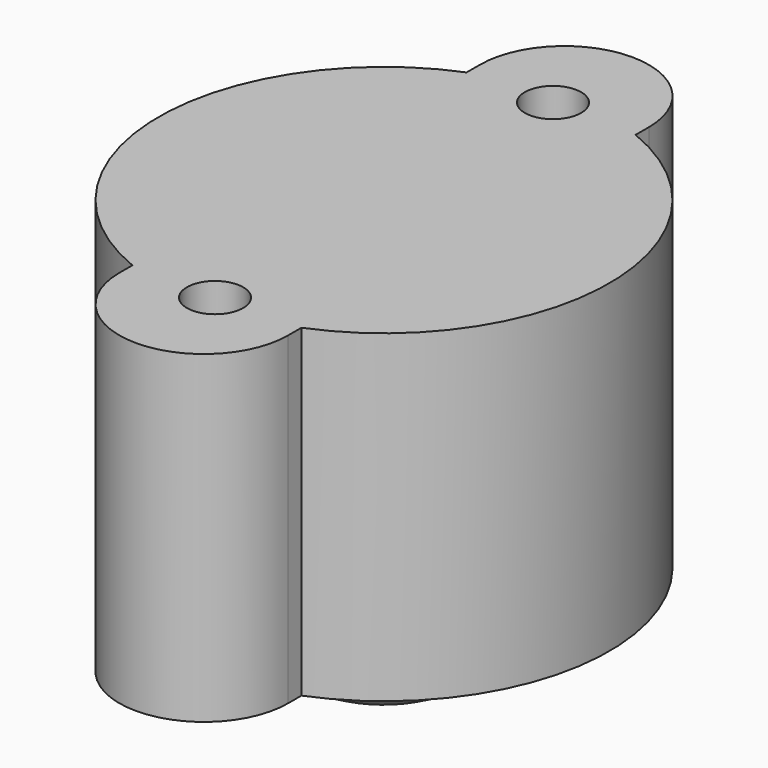
from build123d import *

# Parameters (mm, degrees)
SKETCH016_R               = 1
PAD014_DEPTH              = 11.5
FUSION006_PLACEMENT_ANGLE = 90


with BuildPart() as sphere:
    # Sphere → Sphere (revolve)
    with BuildSketch(Plane(origin=(56.3, 0, -9), x_dir=(1, 0, 0), z_dir=(0, -1, 0))):
        with BuildLine():
            ThreePointArc((0, -6), (6, 0), (0, 6))
            Line((0, 6), (0, -6))
        make_face()
    revolve(axis=Axis((56.3, 0, -9), (0, 0, 1)))


with BuildPart() as casterwheel:
    # Sketch016 → Pad014 (new body)
    with BuildSketch(Plane.XY):
        with BuildLine():
            ThreePointArc((48.919965, -3), (56.336164, -8), (63.752362, -3))
            Line((63.752362, -3), (64.340191, -3))
            ThreePointArc((64.340191, -3), (67.34019, 0.002014), (64.336164, 2.999997))
            Line((63.752363, 2.999997), (64.336164, 2.999997))
            ThreePointArc((63.752363, 2.999997), (56.336165, 8), (48.919965, 3))
            Line((48.336164, 3), (48.919965, 3))
            ThreePointArc((48.336164, 3), (45.336163, 0), (48.336163, -3))
            Line((48.336163, -3), (48.919965, -3))
        make_face()
        with Locations((48.836164, 0)):
            Circle(SKETCH016_R, mode=Mode.SUBTRACT)
        with Locations((63.836164, 0)):
            Circle(SKETCH016_R, mode=Mode.SUBTRACT)
    extrude(amount=-PAD014_DEPTH)

    # Fusion006: union Sphere
    add(sphere.part)


with BuildPart() as casterwheel_1:
    # Fusion006 placement: moved
    add(casterwheel.part.moved(Location((54.7, -56.5, -8))).rotate(Axis((54.7, -56.5, -8), (0, 0, 1)), FUSION006_PLACEMENT_ANGLE))


solid = casterwheel_1.part
